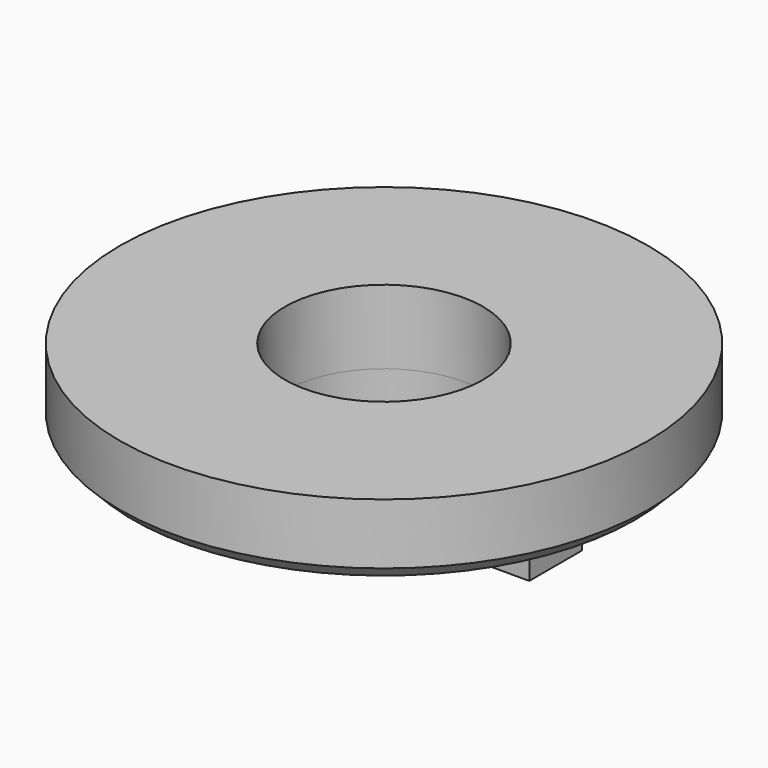
from build123d import *

# Parameters (mm, degrees)
F0_R      = 100
F1_DEPTH  = 28
F2_R      = 65
F2_R_2    = 37.5
F3_DEPTH  = 15
F5_DEPTH  = 10
F6_R      = 6
F7_DEPTH  = 2
F3_FACE_R = 37.5
F8_DEPTH  = 50
F9_SIZE   = 5


with BuildPart() as f1:
    # F0 (on Top) → F1 (new body)
    with BuildSketch(Plane.XY):
        Circle(F0_R)
    extrude(amount=F1_DEPTH)

    # F2 (on face) → F3 (join)
    with BuildSketch(Plane(origin=(0, 0, 0), x_dir=(1, 0, 0), z_dir=(0, 0, -1))):
        Circle(F2_R)
        Circle(F2_R_2, mode=Mode.SUBTRACT)
    extrude(amount=F3_DEPTH)

    # F4 (on face) → F5 (join)
    with BuildSketch(Plane(origin=(0, 0, -15), x_dir=(1, 0, 0), z_dir=(0, 0, -1))):
        with BuildLine():
            ThreePointArc((-65, 0), (-64.695978, -6.27937), (-63.786754, -12.5))
            Line((-63.786754, -12.5), (-40, -12.5))
            Line((-40, -12.5), (-40, 12.5))
            Line((-40, 12.5), (-63.786754, 12.5))
            ThreePointArc((-63.786754, 12.5), (-64.695978, 6.27937), (-65, 0))
        make_face()
        with BuildLine():
            Line((40, -12.5), (63.786754, -12.5))
            ThreePointArc((63.786754, -12.5), (64.695978, -6.27937), (65, 0))
            ThreePointArc((65, 0), (64.695978, 6.27937), (63.786754, 12.5))
            Line((63.786754, 12.5), (40, 12.5))
            Line((40, 12.5), (40, -12.5))
        make_face()
        with BuildLine():
            ThreePointArc((63.786754, 12.5), (64.695978, 6.27937), (65, 0))
            Line((65, 0), (65, 12.5))
            Line((65, 12.5), (63.786754, 12.5))
        make_face()
        with BuildLine():
            Line((63.786754, -12.5), (65, -12.5))
            Line((65, -12.5), (65, 0))
            ThreePointArc((65, 0), (64.695978, -6.27937), (63.786754, -12.5))
        make_face()
        with BuildLine():
            Line((-65, 12.5), (-65, 0))
            ThreePointArc((-65, 0), (-64.695978, 6.27937), (-63.786754, 12.5))
            Line((-63.786754, 12.5), (-65, 12.5))
        make_face()
        with BuildLine():
            Line((-65, -12.5), (-63.786754, -12.5))
            ThreePointArc((-63.786754, -12.5), (-64.695978, -6.27937), (-65, 0))
            Line((-65, 0), (-65, -12.5))
        make_face()
    extrude(amount=F5_DEPTH)

    # F6 (on face) → F7 (cut)
    with BuildSketch(Plane(origin=(0, 0, -25), x_dir=(1, 0, 0), z_dir=(0, 0, -1))):
        with Locations((52.5, 0)):
            Circle(F6_R)
        with Locations((-52.5, 0)):
            Circle(F6_R)
    extrude(amount=-F7_DEPTH, mode=Mode.SUBTRACT)

    # F3_face (on face) → F8 (cut)
    with BuildSketch(Plane(origin=(0, 0, -15), x_dir=(1, 0, 0), z_dir=(0, 0, -1))):
        Circle(F3_FACE_R)
    extrude(amount=-F8_DEPTH, mode=Mode.SUBTRACT)

    # F9
    f9_edges = [f1.edges().sort_by_distance(p)[0] for p in [
        (-100, 0, 0),
    ]]
    chamfer(f9_edges, length=F9_SIZE)


solid = f1.part
